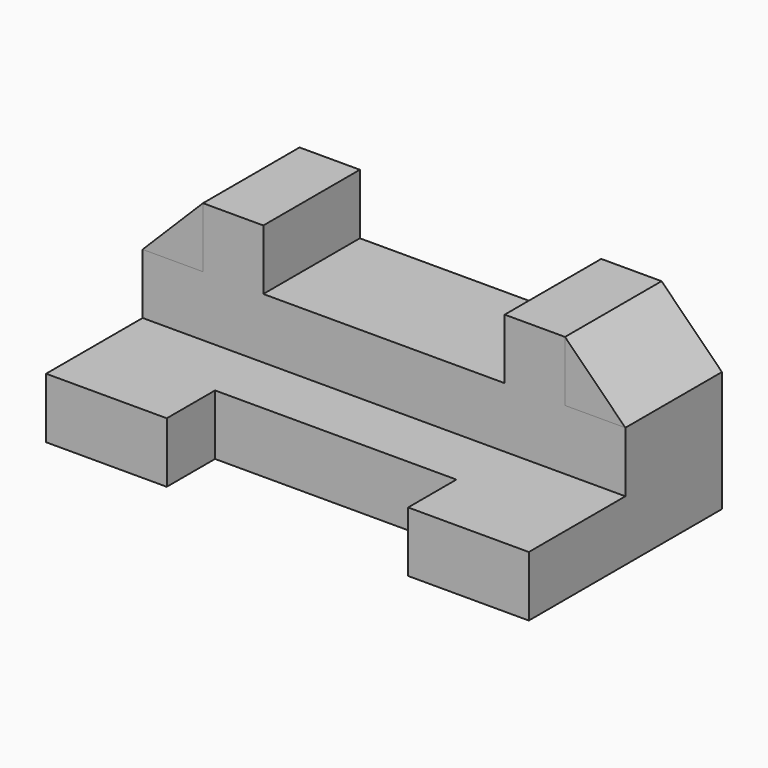
from build123d import *

# Parameters (mm, degrees)
F0_W      = 203.2
F0_H      = 50.8
F1_DEPTH  = 50.8
F2_W      = 25.4
F2_H      = 50.8
F3_DEPTH  = 25.4
F4_W      = 25.4
F4_H      = 50.8
F5_DEPTH  = 25.4
F7_DEPTH  = 50.8
F8_W      = 50.8
F8_H      = 25.4
F9_DEPTH  = 203.2
F10_W     = 101.6
F10_H     = 25.4
F11_DEPTH = 25.4


with BuildPart() as f1:
    # F0 (on Top) → F1 (new body)
    with BuildSketch(Plane.XY):
        with Locations((33.260183, 28.070297)):
            Rectangle(F0_W, F0_H)
    extrude(amount=F1_DEPTH)

    # F2 (on face) → F3 (join)
    with BuildSketch(Plane.XY.offset(50.8)):
        with Locations((96.760183, 28.070297)):
            Rectangle(F2_W, F2_H)
    extrude(amount=F3_DEPTH)

    # F4 (on face) → F5 (join)
    with BuildSketch(Plane.XY.offset(50.8)):
        with Locations((-30.239817, 28.070297)):
            Rectangle(F4_W, F4_H)
    extrude(amount=F5_DEPTH)

    # F8 (on face) → F9 (join)
    with BuildSketch(Plane.YZ.offset(134.860183)):
        with Locations((-22.729703, 12.7)):
            Rectangle(F8_W, F8_H)
    extrude(amount=-F9_DEPTH)

    # F10 (on face) → F11 (cut)
    with BuildSketch(Plane.XY.offset(25.4)):
        with Locations((33.260183, -35.429703)):
            Rectangle(F10_W, F10_H)
    extrude(amount=-F11_DEPTH, mode=Mode.SUBTRACT)


with BuildPart() as f7:
    # F6 (on face) → F7 (new body)
    with BuildSketch(Plane.XZ.offset(-2.670297)):
        Polygon((-42.939817, 76.2), (-68.339817, 50.8), (-42.939817, 50.8), align=None)
        Polygon((134.860183, 50.8), (109.460183, 76.2), (109.460183, 50.8), align=None)
    extrude(amount=-F7_DEPTH)


solid = Compound([f1.part, f7.part])
